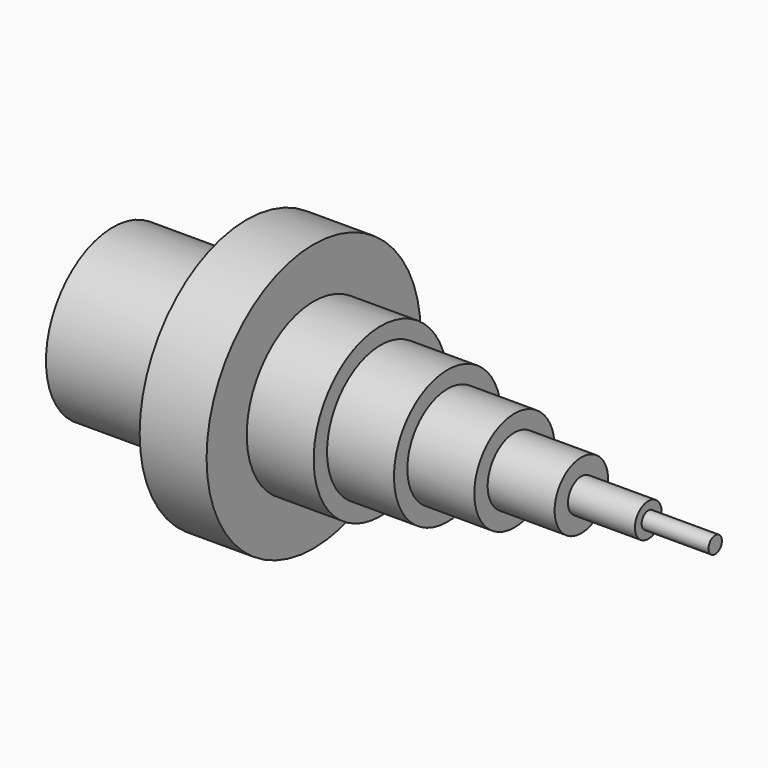
from build123d import *

# Parameters (mm, degrees)
F0_W   = 40
F0_H   = 5
F0_W_2 = 20
F0_H_2 = 2.5


with BuildPart() as f1:
    # F0 (on Top) → F1 (revolve)
    with BuildSketch(Plane.XY):
        Polygon((-50, 0), (-30, 0), (-30, 25), (-30, 40), (-50, 40), (-50, 25), (-50, 20), align=None)
        with Locations((-70, 22.5)):
            Rectangle(F0_W, F0_H)
        Polygon((-30, 0), (-10, 0), (-10, 20), (-10, 25), (-30, 25), align=None)
        Polygon((-10, 0), (10, 0), (10, 15), (10, 20), (-10, 20), align=None)
        Polygon((10, 15), (10, 0), (30, 0), (30, 10), (30, 15), align=None)
        Polygon((30, 10), (30, 0), (50, 0), (50, 5), (50, 10), align=None)
        Polygon((50, 5), (50, 0), (70, 0), (70, 2.5), (70, 5), align=None)
        with Locations((80, 1.25)):
            Rectangle(F0_W_2, F0_H_2)
    revolve(axis=Axis((-40, 0, 0), (-1, 0, 0)))


solid = f1.part
